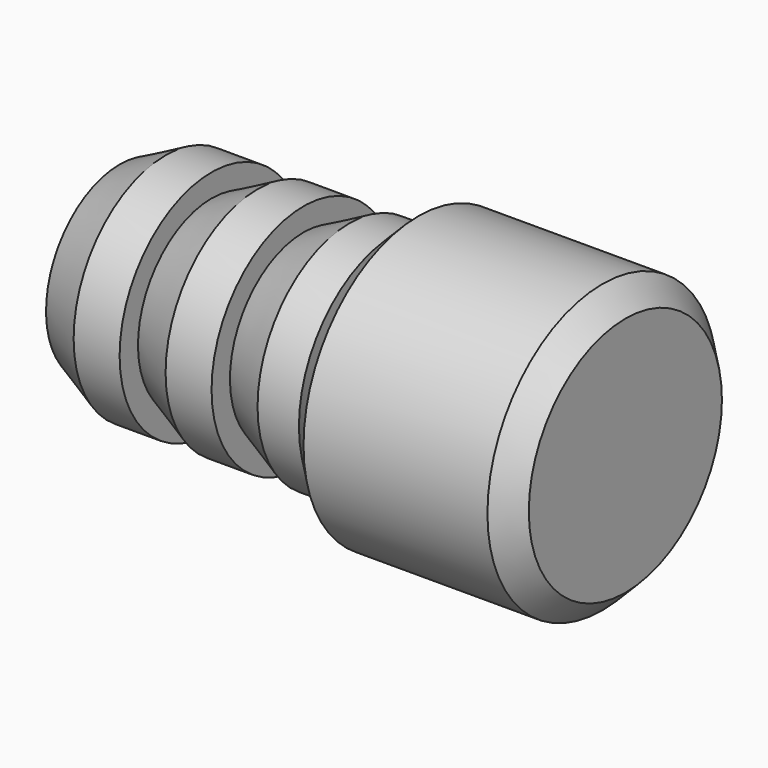
from build123d import *

# Parameters (mm, degrees)
F0_R     = 6.25
F0_R_2   = 3.25
F1_DEPTH = 10
F2_R     = 5
F2_R_2   = 3.25
F3_DEPTH = 12
F6_R     = 6.25
F7_DEPTH = 2
F8_SIZE  = 1


with BuildPart() as f1:
    # F0 (on Right) → F1 (new body)
    with BuildSketch(Plane.YZ):
        Circle(F0_R)
        Circle(F0_R_2, mode=Mode.SUBTRACT)
    extrude(amount=F1_DEPTH)

    # F2 (on face) → F3 (join)
    with BuildSketch(Plane(origin=(0, 0, 0), x_dir=(0, -1, 0), z_dir=(-1, 0, 0))):
        Circle(F2_R)
        Circle(F2_R_2, mode=Mode.SUBTRACT)
    extrude(amount=F3_DEPTH)

    # F4 (on Front) → F5 (revolve, cut)
    with BuildSketch(Plane.XZ):
        Polygon((-10, 5), (-12, 5), (-12, 4), align=None)
        Polygon((-8, 4), (-6, 5), (-8, 5), align=None)
        Polygon((-4, 4), (-2, 5), (-4, 5), align=None)
    revolve(axis=Axis((-10, 0, 0), (-1, 0, 0)), mode=Mode.SUBTRACT)

    # F6 (on face) → F7 (join)
    with BuildSketch(Plane.YZ.offset(10)):
        Circle(F6_R)
    extrude(amount=-F7_DEPTH)

    # F8
    f8_edges = [f1.edges().sort_by_distance(p)[0] for p in [
        (10, -6.25, 0),
        (0, -6.25, 0),
    ]]
    chamfer(f8_edges, length=F8_SIZE)


solid = f1.part
